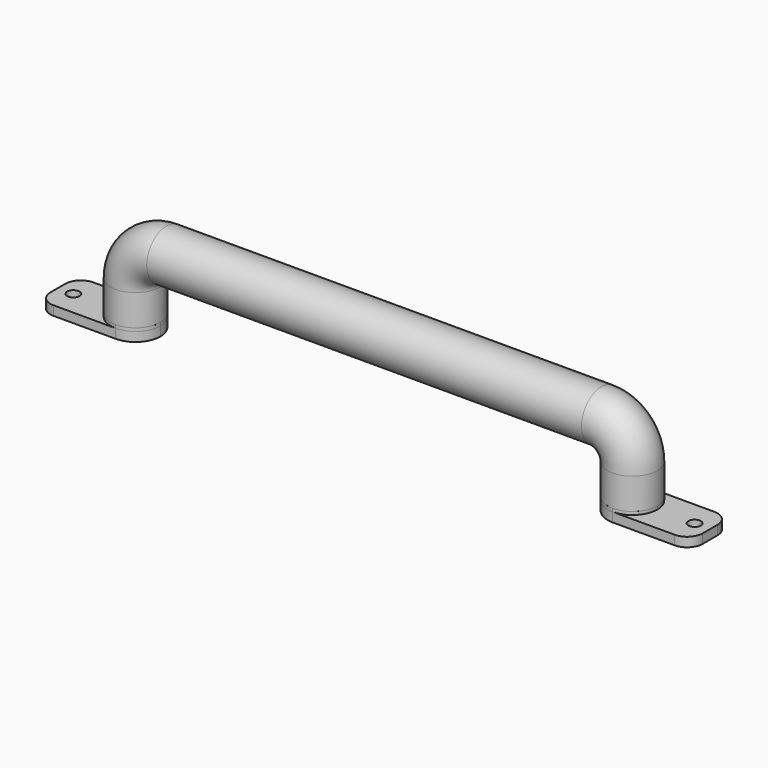
from build123d import *

# Parameters (mm, degrees)
F1_DEPTH  = 1
F0_R      = 2
F2_DEPTH  = 3
F3_DEPTH  = 3
F1_FACE_R = 8
F6_R      = 5
F6_2_R    = 5


with BuildPart() as f1:
    # F0 (on Top) → F1 (new body)
    with BuildSketch(Plane.XY):
        with BuildLine():
            ThreePointArc((-80, 8), (-88, 0), (-80, -8))
            ThreePointArc((-80, -8), (-74.3431457505, -5.6568542495), (-72, 0))
            ThreePointArc((-72, 0), (-74.3431457505, 5.6568542495), (-80, 8))
        make_face()
    extrude(amount=F1_DEPTH)


with BuildPart() as f1b:
    # F0 (on Top) → F1, piece 2 (new body)
    with BuildSketch(Plane.XY):
        with BuildLine():
            ThreePointArc((80, 8), (72, 0), (80, -8))
            ThreePointArc((80, -8), (85.6568542495, -5.6568542495), (88, 0))
            ThreePointArc((88, 0), (85.6568542495, 5.6568542495), (80, 8))
        make_face()
    extrude(amount=F1_DEPTH)


with BuildPart() as f2:
    # F0 (on Top) → F2 (new body)
    with BuildSketch(Plane.XY):
        with BuildLine():
            Line((-105, 8), (-105, -8))
            Line((-105, -8), (-80, -8))
            ThreePointArc((-80, -8), (-88, 0), (-80, 8))
            Line((-80, 8), (-105, 8))
        make_face()
        with Locations((-100, 0)):
            Circle(F0_R, mode=Mode.SUBTRACT)
    extrude(amount=-F2_DEPTH)

    # F6
    f6_edges = [f2.edges().sort_by_distance(p)[0] for p in [
        (-105, -8, -1.5),
        (-105, 8, -1.5),
    ]]
    fillet(f6_edges, radius=F6_R)


with BuildPart() as f2b:
    # F0 (on Top) → F2, piece 2 (new body)
    with BuildSketch(Plane.XY):
        with BuildLine():
            Line((80, -8), (105, -8))
            Line((105, -8), (105, 8))
            Line((105, 8), (80, 8))
            ThreePointArc((80, 8), (85.6568542495, 5.6568542495), (88, 0))
            ThreePointArc((88, 0), (85.6568542495, -5.6568542495), (80, -8))
        make_face()
        with Locations((100, 0)):
            Circle(F0_R, mode=Mode.SUBTRACT)
    extrude(amount=-F2_DEPTH)

    # F6#2
    f6_2_edges = [f2b.edges().sort_by_distance(p)[0] for p in [
        (105, -8, -1.5),
        (105, 8, -1.5),
    ]]
    fillet(f6_2_edges, radius=F6_2_R)


with BuildPart() as f3:
    # F0 (on Top) → F3 (new body)
    with BuildSketch(Plane.XY):
        with BuildLine():
            ThreePointArc((-80, 8), (-88, 0), (-80, -8))
            ThreePointArc((-80, -8), (-74.3431457505, -5.6568542495), (-72, 0))
            ThreePointArc((-72, 0), (-74.3431457505, 5.6568542495), (-80, 8))
        make_face()
    extrude(amount=-F3_DEPTH)


with BuildPart() as f3b:
    # F0 (on Top) → F3, piece 2 (new body)
    with BuildSketch(Plane.XY):
        with BuildLine():
            ThreePointArc((80, 8), (72, 0), (80, -8))
            ThreePointArc((80, -8), (85.6568542495, -5.6568542495), (88, 0))
            ThreePointArc((88, 0), (85.6568542495, 5.6568542495), (80, 8))
        make_face()
    extrude(amount=-F3_DEPTH)


with BuildPart() as f5:
    # F5: sweep along a path in F4
    with BuildLine(Plane.XZ) as f5_path:
        Line((-80, 1), (-80, 11))
        ThreePointArc((-80, 11), (-77.0710678119, 18.0710678119), (-70, 21))
        Line((-70, 21), (0, 21))
        Line((0, 21), (70, 21))
        ThreePointArc((70, 21), (77.0710678119, 18.0710678119), (80, 11))
        Line((80, 11), (80, 1))
    # F1_face (on face) → F5 (sweep)
    with BuildSketch(Plane(origin=(-80, 0, 1), x_dir=(1, 0, 0), z_dir=(0, 0, 1))):
        Circle(F1_FACE_R)
    sweep(path=f5_path.line)


solid = Compound([f1.part, f1b.part, f2.part, f2b.part, f3.part, f3b.part, f5.part])
